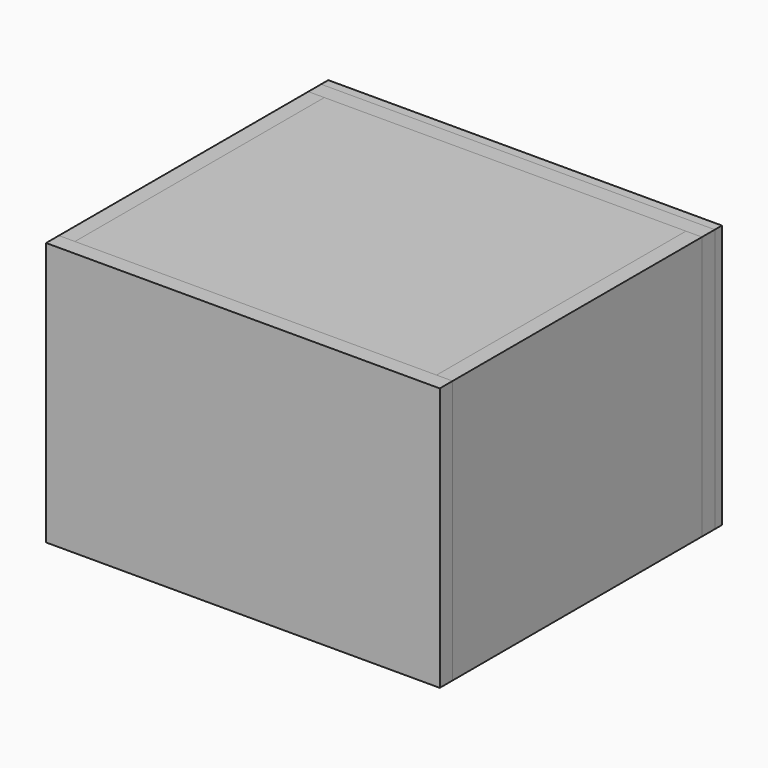
from build123d import *

# Parameters (mm, degrees)
F0_W      = 442
F0_H      = 296
F1_DEPTH  = 18
F2_W      = 18
F2_H      = 296
F3_DEPTH  = 350
F4_W      = 18
F4_H      = 296
F5_DEPTH  = 350
F6_W      = 406
F6_H      = 18
F8_DEPTH  = 350
F7_W      = 406
F7_H      = 18
F9_DEPTH  = 350
F10_W     = 442
F10_H     = 296
F10_R     = 119
F11_DEPTH = 18
F14_W     = 442
F14_H     = 296
F14_R     = 130
F15_DEPTH = 10


with BuildPart() as f1:
    # F0 (on Front) → F1 (new body)
    with BuildSketch(Plane.XZ):
        Rectangle(F0_W, F0_H)
    extrude(amount=F1_DEPTH)


with BuildPart() as f3:
    # F2 (on face) → F3 (new body)
    with BuildSketch(Plane(origin=(0, 0, 0), x_dir=(-1, 0, 0), z_dir=(0, 1, 0))):
        with Locations((-212, 0)):
            Rectangle(F2_W, F2_H)
    extrude(amount=F3_DEPTH)


with BuildPart() as f5:
    # F4 (on face) → F5 (new body)
    with BuildSketch(Plane(origin=(0, 0, 0), x_dir=(-1, 0, 0), z_dir=(0, 1, 0))):
        with Locations((212, 0)):
            Rectangle(F4_W, F4_H)
    extrude(amount=F5_DEPTH)


with BuildPart() as f8:
    # F6 (on face) → F8 (new body)
    with BuildSketch(Plane(origin=(0, 0, 0), x_dir=(-1, 0, 0), z_dir=(0, 1, 0))):
        with Locations((0, 139)):
            Rectangle(F6_W, F6_H)
    extrude(amount=F8_DEPTH)


with BuildPart() as f9:
    # F7 (on face) → F9 (new body)
    with BuildSketch(Plane(origin=(0, 0, 0), x_dir=(-1, 0, 0), z_dir=(0, 1, 0))):
        with Locations((0, -139)):
            Rectangle(F7_W, F7_H)
    extrude(amount=F9_DEPTH)


with BuildPart() as f11:
    # F10 (on face) → F11 (new body)
    with BuildSketch(Plane(origin=(0, 350, 0), x_dir=(-1, 0, 0), z_dir=(0, 1, 0))):
        Rectangle(F10_W, F10_H)
        Circle(F10_R, mode=Mode.SUBTRACT)
    extrude(amount=F11_DEPTH)


with BuildPart() as f12_1:
    # F12: copy of F11
    add(f11.part.moved(Location((0, 18, 0))))


with BuildPart() as f15:
    # F14 (on face) → F15 (new body)
    with BuildSketch(Plane(origin=(0, 368, 0), x_dir=(-1, 0, 0), z_dir=(0, 1, 0))):
        Rectangle(F14_W, F14_H)
        Circle(F14_R, mode=Mode.SUBTRACT)
    extrude(amount=F15_DEPTH)


solid = Compound([f1.part, f3.part, f5.part, f8.part, f9.part, f11.part, f15.part])
